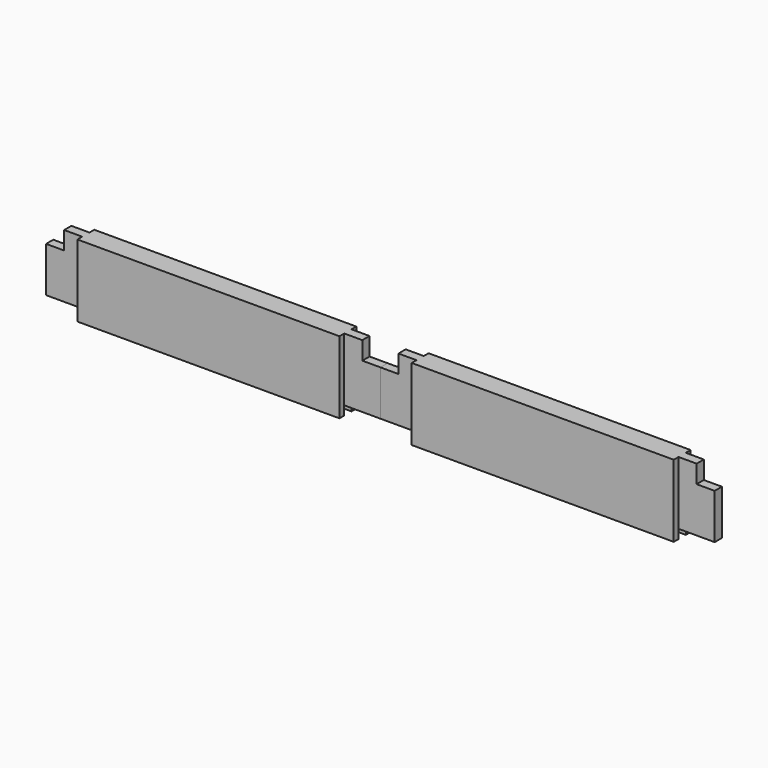
from build123d import *

# Parameters (mm, degrees)
F0_W     = 352.425
F0_H     = 76.2
F1_DEPTH = 22.225
F2_W     = 38.1
F2_H     = 9.525
F2_W_2   = 276.225
F3_DEPTH = 9.525
F2_H_2   = 6.35
F4_DEPTH = 76.2
F5_W     = 19.05
F5_H     = 19.05
F6_DEPTH = 9.525


with BuildPart() as f1:
    # F0 (on Front) → F1 (new body)
    with BuildSketch(Plane.XZ):
        with Locations((176.2125, 38.1)):
            Rectangle(F0_W, F0_H)
    extrude(amount=F1_DEPTH)

    # F2 (on face) → F3 (cut)
    with BuildSketch(Plane(origin=(0, 0, 0), x_dir=(1, 0, 0), z_dir=(0, 0, -1))):
        with Locations((333.375, 11.1125)):
            Rectangle(F2_W, F2_H)
        with Locations((176.2125, 11.1125)):
            Rectangle(F2_W_2, F2_H)
        with Locations((19.05, 11.1125)):
            Rectangle(F2_W, F2_H)
    extrude(amount=-F3_DEPTH, mode=Mode.SUBTRACT)

    # F2 (on face) → F4 (cut, through all)
    with BuildSketch(Plane(origin=(0, 0, 0), x_dir=(1, 0, 0), z_dir=(0, 0, -1))):
        with Locations((19.05, 19.05)):
            Rectangle(F2_W, F2_H_2)
        with Locations((333.375, 19.05)):
            Rectangle(F2_W, F2_H_2)
        with Locations((333.375, 3.175)):
            Rectangle(F2_W, F2_H_2)
        with Locations((19.05, 3.175)):
            Rectangle(F2_W, F2_H_2)
    extrude(amount=-F4_DEPTH, mode=Mode.SUBTRACT)

    # F5 (on face) → F6 (cut, through all)
    with BuildSketch(Plane(origin=(0, -6.35, 0), x_dir=(-1, 0, 0), z_dir=(0, 1, 0))):
        with Locations((-342.9, 66.675)):
            Rectangle(F5_W, F5_H)
        with Locations((-9.525, 66.675)):
            Rectangle(F5_W, F5_H)
    extrude(amount=-F6_DEPTH, mode=Mode.SUBTRACT)


with BuildPart() as f7_1:
    # F7: instance of F1
    add(f1.part.mirror(Plane.YZ))


solid = Compound([f1.part, f7_1.part])
